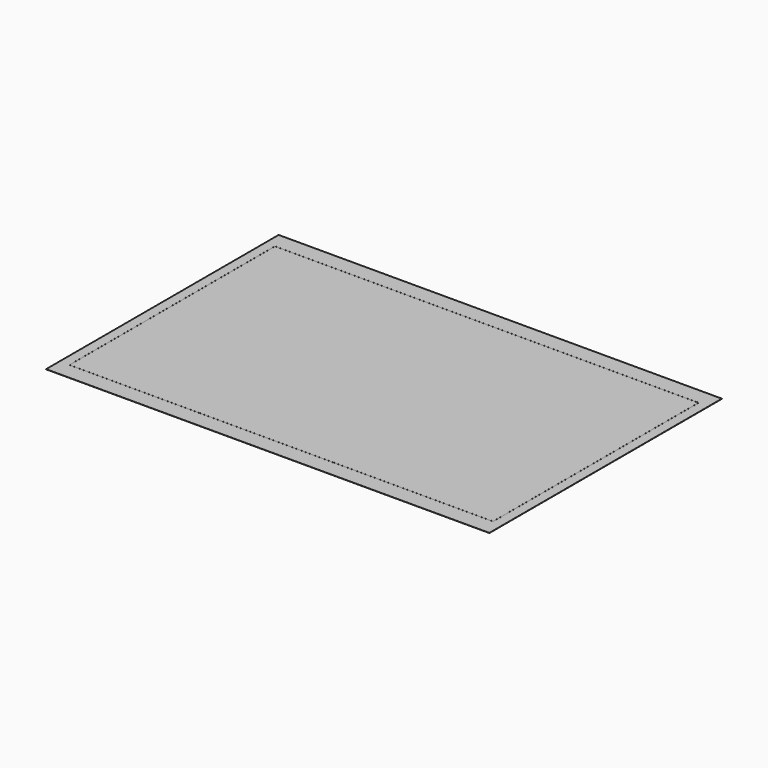
from build123d import *

# Parameters (mm, degrees)
F0_W     = 457.5
F0_H     = 300
F1_DEPTH = 0.175
F2_W     = 437.4
F2_H     = 265.4
F2_W_2   = 437
F2_H_2   = 265
F3_DEPTH = 0.05


with BuildPart() as f1:
    # F0 (on Top) → F1 (new body)
    with BuildSketch(Plane.XY):
        Rectangle(F0_W, F0_H)
    extrude(amount=F1_DEPTH)

    # F2 (on face) → F3 (cut)
    with BuildSketch(Plane.XY.offset(0.175)):
        Rectangle(F2_W, F2_H)
        Rectangle(F2_W_2, F2_H_2, mode=Mode.SUBTRACT)
    extrude(amount=-F3_DEPTH, mode=Mode.SUBTRACT)


solid = f1.part
